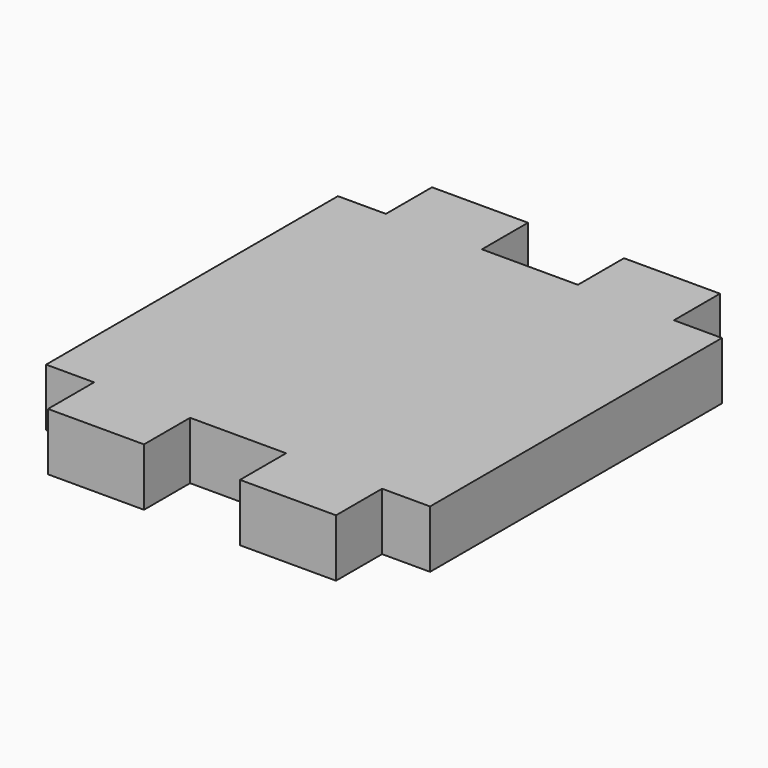
from build123d import *

# Parameters (mm, degrees)
F1_DEPTH = 3


with BuildPart() as f1:
    # F0 (on Top) → F1 (new body)
    with BuildSketch(Plane.XY):
        Polygon((-10, 9.5), (-10, 0), (-10, -9.5), (-7.5, -9.5), (-7.5, -12.5), (-2.5, -12.5), (-2.5, -9.5), (0, -9.5), (2.5, -9.5), (2.5, -12.5), (7.5, -12.5), (7.5, -9.5), (10, -9.5), (10, 0), (10, 9.5), (7.5, 9.5), (7.5, 12.5), (2.5, 12.5), (2.5, 9.5), (0, 9.5), (-2.5, 9.5), (-2.5, 12.5), (-7.5, 12.5), (-7.5, 9.5), align=None)
    extrude(amount=F1_DEPTH)


solid = f1.part
